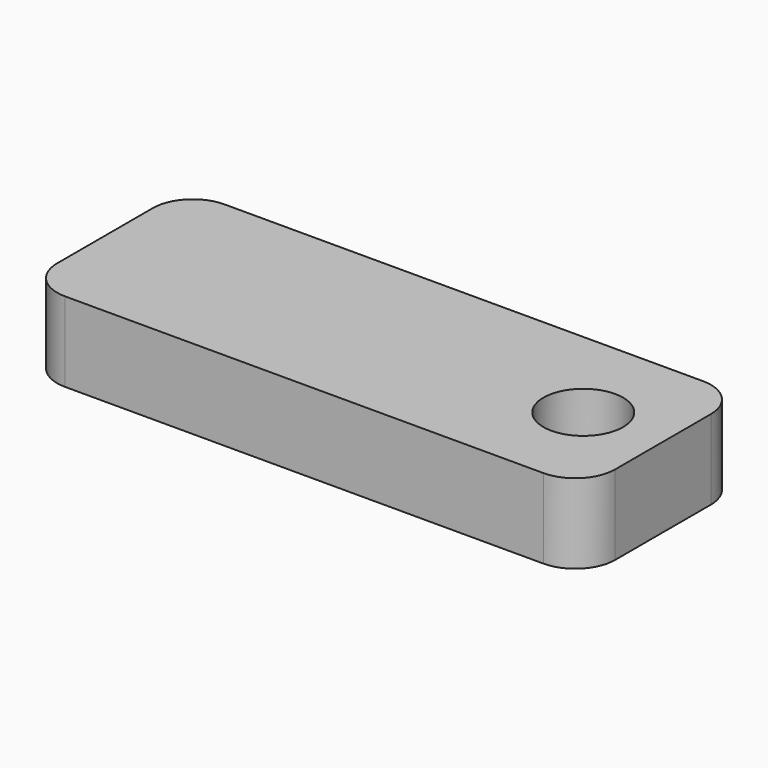
from build123d import *

# Parameters (mm, degrees)
F0_W     = 70
F0_H     = 25
F0_R     = 5
F1_DEPTH = 10
F2_R     = 5


with BuildPart() as f1:
    # F0 (on Top) → F1 (new body)
    with BuildSketch(Plane.XY):
        Rectangle(F0_W, F0_H)
        with Locations((25, 0)):
            Circle(F0_R, mode=Mode.SUBTRACT)
    extrude(amount=F1_DEPTH)

    # F2
    f2_edges = [f1.edges().sort_by_distance(p)[0] for p in [
        (-35, -12.5, 5),
        (-35, 12.5, 5),
        (35, -12.5, 5),
        (35, 12.5, 5),
    ]]
    fillet(f2_edges, radius=F2_R)


solid = f1.part
